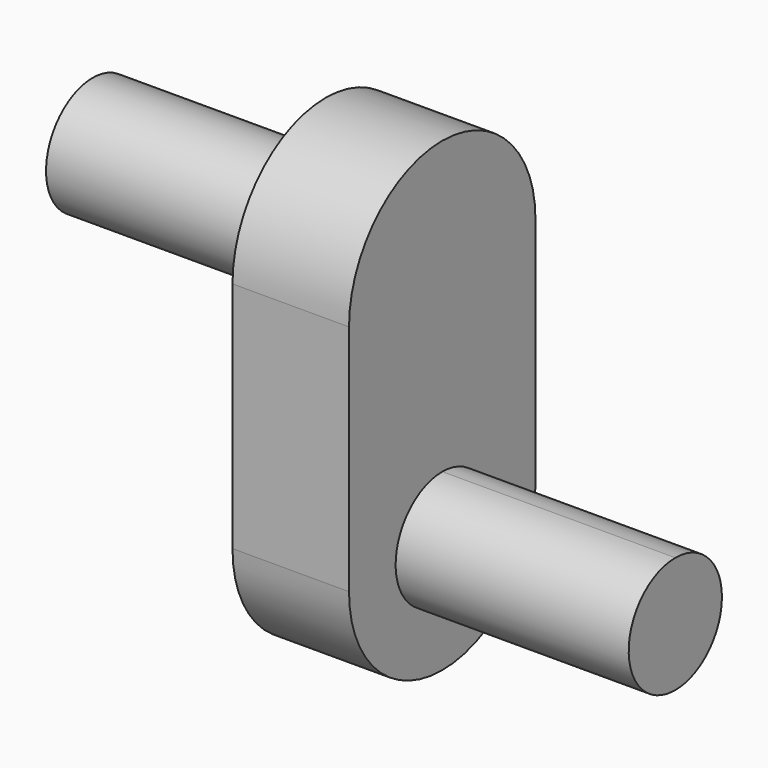
from build123d import *

# Parameters (mm, degrees)
F1_DEPTH      = 12.7
F2_DEPTH      = 38.1
F3_DEPTH      = 25.4
F3_DEPTH_BACK = 12.7


with BuildPart() as f1:
    # F0 (on Right) → F1 (new body)
    with BuildSketch(Plane.YZ):
        with BuildLine():
            ThreePointArc((12.7, 25.4), (0, 38.1), (-12.7, 25.4))
            Line((-12.7, 25.4), (-12.7, 0))
            ThreePointArc((-12.7, 0), (0, -12.7), (12.7, 0))
            Line((12.7, 0), (12.7, 25.4))
        make_face()
        with BuildLine():
            ThreePointArc((0, 6.35), (4.4901280605, 4.4901280605), (6.35, 0))
            ThreePointArc((6.35, 0), (-4.4901280605, -4.4901280605), (0, 6.35))
        make_face(mode=Mode.SUBTRACT)
        with BuildLine():
            ThreePointArc((6.35, 25.4), (4.4901280605, 20.9098719395), (0, 19.05))
            ThreePointArc((0, 19.05), (-4.4901280605, 29.8901280605), (6.35, 25.4))
        make_face(mode=Mode.SUBTRACT)
    extrude(amount=F1_DEPTH)

    # F0 (on Right) → F2 (join)
    with BuildSketch(Plane.YZ):
        with BuildLine():
            ThreePointArc((0, 6.35), (-4.4901280605, -4.4901280605), (6.35, 0))
            ThreePointArc((6.35, 0), (4.4901280605, 4.4901280605), (0, 6.35))
        make_face()
    extrude(amount=F2_DEPTH)

    # F0 (on Right) → F3 (join, two sides)
    with BuildSketch(Plane.YZ) as f3_sk:
        with BuildLine():
            ThreePointArc((6.35, 25.4), (-4.4901280605, 29.8901280605), (0, 19.05))
            ThreePointArc((0, 19.05), (4.4901280605, 20.9098719395), (6.35, 25.4))
        make_face()
    extrude(amount=-F3_DEPTH)
    extrude(f3_sk.sketch, amount=F3_DEPTH_BACK)


solid = f1.part
